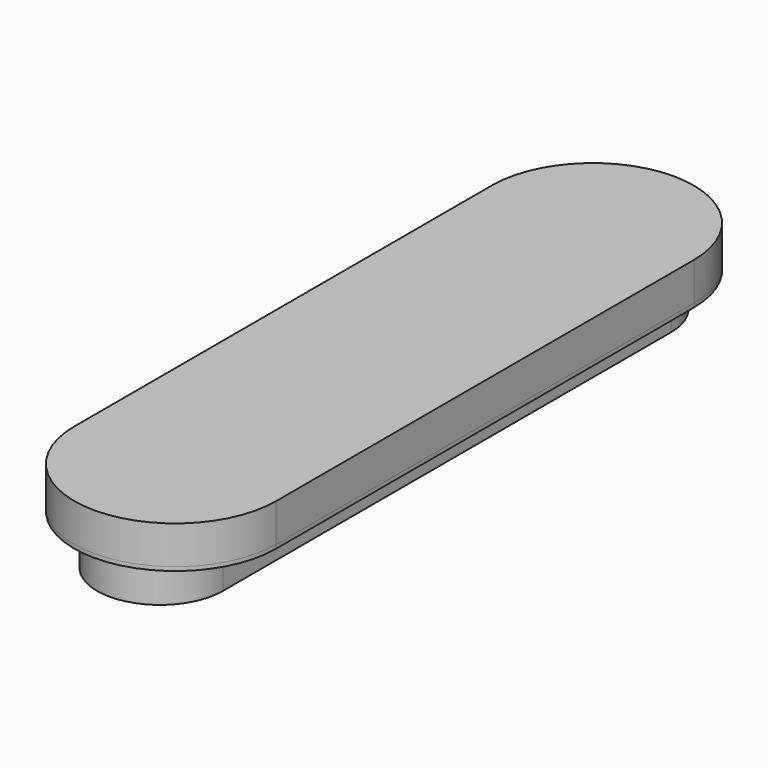
from build123d import *

# Parameters (mm, degrees)
F0_W     = 66
F0_H     = 274
F0_H_2   = 10
F1_DEPTH = 44
F0_W_2   = 20
F2_DEPTH = 20
F4_DEPTH = 2


with BuildPart() as f1:
    # F0 (on Top) → F1 (new body)
    with BuildSketch(Plane.XY):
        Rectangle(F0_W, F0_H)
        with Locations((0, 142)):
            Rectangle(F0_W, F0_H_2)
        with BuildLine():
            Line((-33, 147), (33, 147))
            ThreePointArc((33, 147), (0, 180), (-33, 147))
        make_face()
        with Locations((0, -142)):
            Rectangle(F0_W, F0_H_2)
        with BuildLine():
            ThreePointArc((-33, -147), (0, -180), (33, -147))
            Line((33, -147), (-33, -147))
        make_face()
    extrude(amount=-F1_DEPTH)

    # F0 (on Top) → F2 (join)
    with BuildSketch(Plane.XY):
        with Locations((-43, 0)):
            Rectangle(F0_W_2, F0_H)
        with BuildLine():
            ThreePointArc((-33, 147), (0, 180), (33, 147))
            Line((33, 147), (33, 137))
            Line((33, 137), (53, 137))
            ThreePointArc((53, 137), (0, 190), (-53, 137))
            Line((-53, 137), (-33, 137))
            Line((-33, 137), (-33, 147))
        make_face()
        with Locations((43, 0)):
            Rectangle(F0_W_2, F0_H)
        with BuildLine():
            Line((53, -137), (33, -137))
            Line((33, -137), (33, -147))
            ThreePointArc((33, -147), (0, -180), (-33, -147))
            Line((-33, -147), (-33, -137))
            Line((-33, -137), (-53, -137))
            ThreePointArc((-53, -137), (0, -190), (53, -137))
        make_face()
    extrude(amount=-F2_DEPTH)


with BuildPart() as f4:
    # F3 (on face) → F4 (new body)
    with BuildSketch(Plane(origin=(0, 0, -20), x_dir=(1, 0, 0), z_dir=(0, 0, -1))):
        with BuildLine():
            ThreePointArc((53, 137), (0, 190), (-53, 137))
            Line((-53, 137), (-53, -137))
            ThreePointArc((-53, -137), (0, -190), (53, -137))
            Line((53, -137), (53, 137))
        make_face()
        with BuildLine():
            ThreePointArc((34, -147), (0, -181), (-34, -147))
            Line((-34, -147), (-34, 147))
            ThreePointArc((-34, 147), (0, 181), (34, 147))
            Line((34, 147), (34, -147))
        make_face(mode=Mode.SUBTRACT)
    extrude(amount=F4_DEPTH)


solid = Compound([f1.part, f4.part])
